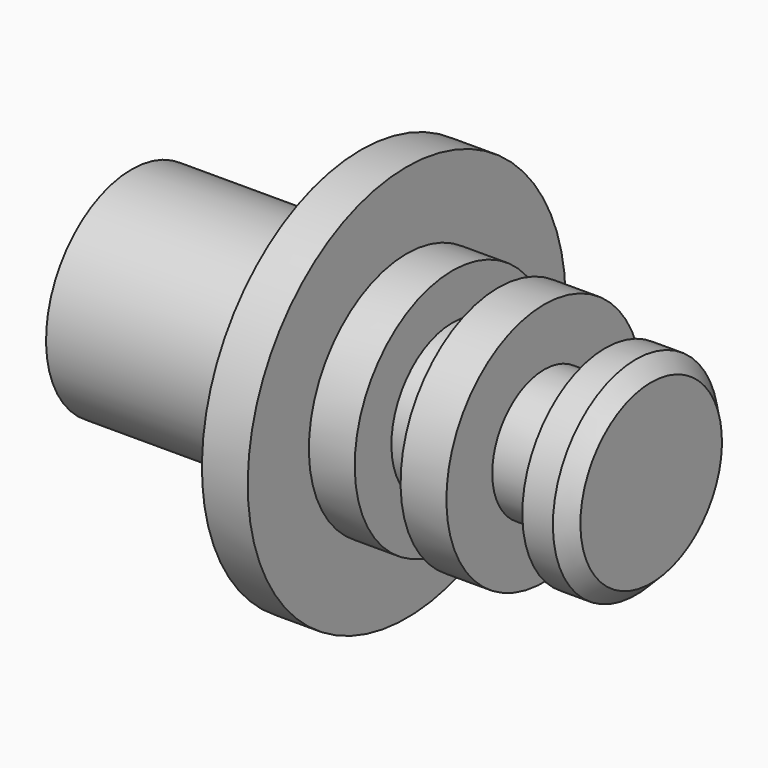
from build123d import *

# Parameters (mm, degrees)
F2_SIZE = 25.4


with BuildPart() as f1:
    # F0 (on Front) → F1 (revolve)
    with BuildSketch(Plane.XZ):
        Polygon((0, 177.8), (0, 0), (863.6, 0), (863.6, 172.44786), (787.4, 172.44786), (787.4, 107.95), (685.8, 107.95), (685.8, 203.2), (609.6, 203.2), (609.6, 127), (533.4, 127), (533.4, 203.2), (457.2, 203.2), (457.2, 330.2), (381, 330.2), (381, 177.8), align=None)
    revolve(axis=Axis((431.8, 0, 0), (1, 0, 0)))

    # F2
    f2_edges = [f1.edges().sort_by_distance(p)[0] for p in [
        (863.6, 0, -172.44786),
    ]]
    chamfer(f2_edges, length=F2_SIZE)


solid = f1.part
